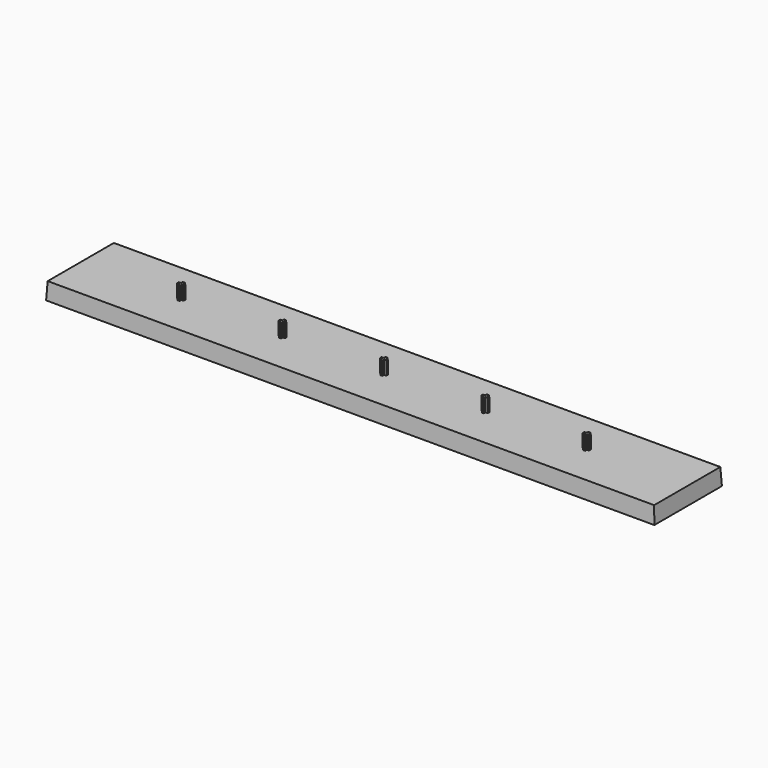
from build123d import *

# Parameters (mm, degrees)
SKETCH_W            = 360
SKETCH_H            = 50
PAD_DEPTH           = 10
PAD_TAPER           = 3
PAD001_DEPTH        = 8
LINEARPATTERN_COUNT = 5
LINEARPATTERN_PITCH = 60


with BuildPart() as part:
    # Sketch → Pad (new body)
    with BuildSketch(Plane.XY):
        Rectangle(SKETCH_W, SKETCH_H)
    extrude(amount=PAD_DEPTH, taper=PAD_TAPER)

    # Sketch001 (on DatumPlane) → Pad001 (join)
    with BuildSketch(Plane.XY.offset(10)):
        Polygon((-120.6, 1.9), (-119.4, 1.9), (-119.4, 0.6), (-118.1, 0.6), (-118.1, -0.6), (-119.4, -0.6), (-119.4, -1.9), (-120.6, -1.9), (-120.6, -0.6), (-121.9, -0.6), (-121.9, 0.6), (-120.6, 0.6), align=None)
    pad001 = extrude(amount=PAD001_DEPTH)

    # LinearPattern: Pad001 ×5
    with Locations(*[(i * LINEARPATTERN_PITCH, 0, 0) for i in range(1, LINEARPATTERN_COUNT)]):
        add(pad001)


solid = part.part
